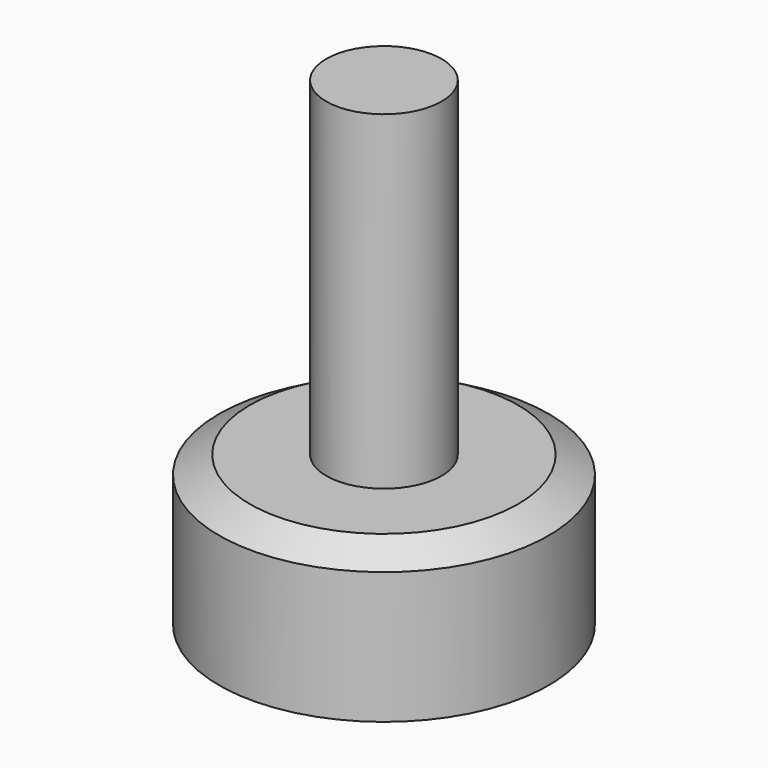
from build123d import *

# Parameters (mm, degrees)
F0_W   = 3.5
F0_H   = 20
F0_H_2 = 3
F0_H_3 = 1.0746234533


with BuildPart() as f1:
    # F0 (on Front) → F1 (revolve)
    with BuildSketch(Plane.XZ):
        with Locations((-22.3013077103, 19.0746234533)):
            Rectangle(F0_W, F0_H)
        Polygon((-24.0513077103, 8), (-30.5513077103, 8), (-30.5513077103, 0), (-24.0513077103, 0), (-24.0513077103, 5), align=None)
        Polygon((-28.6900052902, 9.0746234533), (-30.5513077103, 8), (-24.0513077103, 8), (-24.0513077103, 9.0746234533), align=None)
        with Locations((-22.3013077103, 6.5)):
            Rectangle(F0_W, F0_H_2)
        with Locations((-22.3013077103, 8.5373117267)):
            Rectangle(F0_W, F0_H_3)
    revolve(axis=Axis((-20.5513077103, 0, 19.0746234533), (0, 0, 1)))


solid = f1.part
